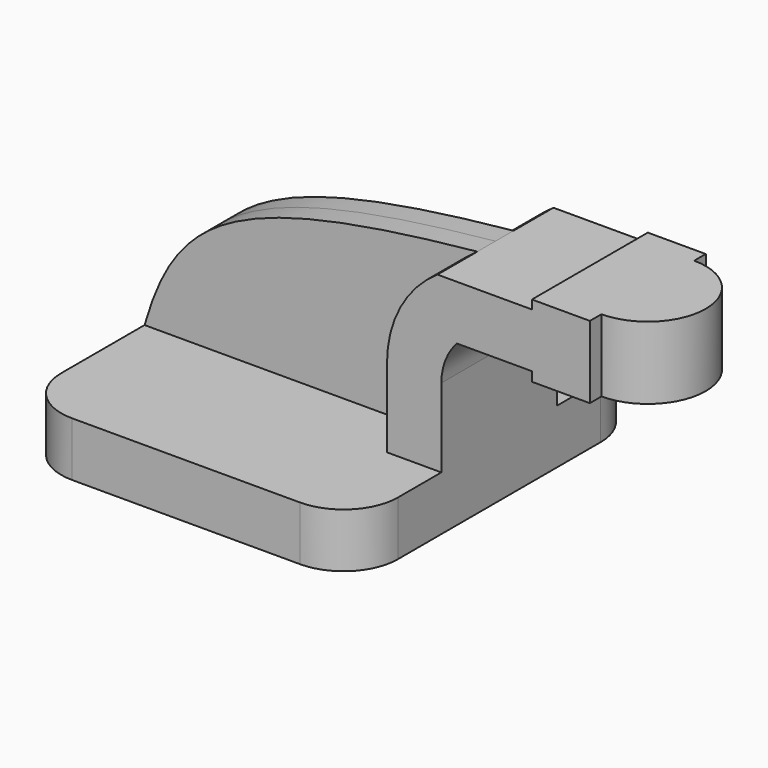
from build123d import *

# Parameters (mm, degrees)
F1_DEPTH = 63.5
F2_DEPTH = 25.4
F3_DEPTH = 7.9375
F4_R     = 19.05
F0_W     = 20.32
F0_H     = 25.4


with BuildPart() as f1:
    # F0 (on Front) → F1 (new body, symmetric)
    with BuildSketch(Plane.XZ):
        Polygon((-59.020348, -9.525), (59.020348, -9.525), (59.020348, 9.525), (39.970348, 9.525), (-59.020348, 9.525), align=None)
    extrude(amount=F1_DEPTH, both=True)

    # F0 (on Front) → F2 (join, symmetric)
    with BuildSketch(Plane.XZ):
        with BuildLine():
            Line((39.970348, 9.525), (59.020348, 9.525))
            Line((59.020348, 9.525), (59.020348, 37.131319))
            ThreePointArc((59.020348, 37.131319), (60.435036, 44.631259), (64.484679, 51.100481))
            Line((64.484679, 51.100481), (90.776205, 51.100481))
            Line((90.776205, 51.100481), (90.776205, 70.150481))
            Line((90.776205, 70.150481), (57.678994, 70.150481))
            ThreePointArc((57.678994, 70.150481), (44.67694, 55.865387), (39.970348, 37.131319))
            Line((39.970348, 37.131319), (39.970348, 9.525))
        make_face()
        Polygon((90.776205, 73.233253), (90.776205, 70.150481), (90.776205, 51.100481), (90.776205, 47.833253), (111.096205, 47.833253), (111.096205, 73.233253), align=None)
    extrude(amount=F2_DEPTH, both=True)

    # F0 (on Front) → F3 (join, symmetric)
    with BuildSketch(Plane.XZ):
        with BuildLine():
            add(Edge.make_bspline(
                [(-59.020348, 9.525), (-47.986072, 47.833253), (-28.256564, 61.492361), (57.678994, 70.150481)],
                knots=[0, 0, 0, 0, 131.507358, 131.507358, 131.507358, 131.507358], degree=3))
            Line((-59.020348, 9.525), (39.970348, 9.525))
            Line((39.970348, 9.525), (39.970348, 37.131319))
            ThreePointArc((39.970348, 37.131319), (44.67694, 55.865387), (57.678994, 70.150481))
        make_face()
    extrude(amount=F3_DEPTH, both=True)

    # F4
    f4_edges = [f1.edges().sort_by_distance(p)[0] for p in [
        (59.020348, -63.5, 0),
        (-59.020348, -63.5, 0),
        (-59.020348, 63.5, 0),
        (59.020348, 63.5, 0),
    ]]
    fillet(f4_edges, radius=F4_R)

    # F0 (on Front) → F5 (revolve)
    with BuildSketch(Plane.XZ):
        with Locations((121.256205, 60.533253)):
            Rectangle(F0_W, F0_H)
    revolve(axis=Axis((111.096205, 0, 60.533253), (0, 0, 1)))


solid = f1.part
